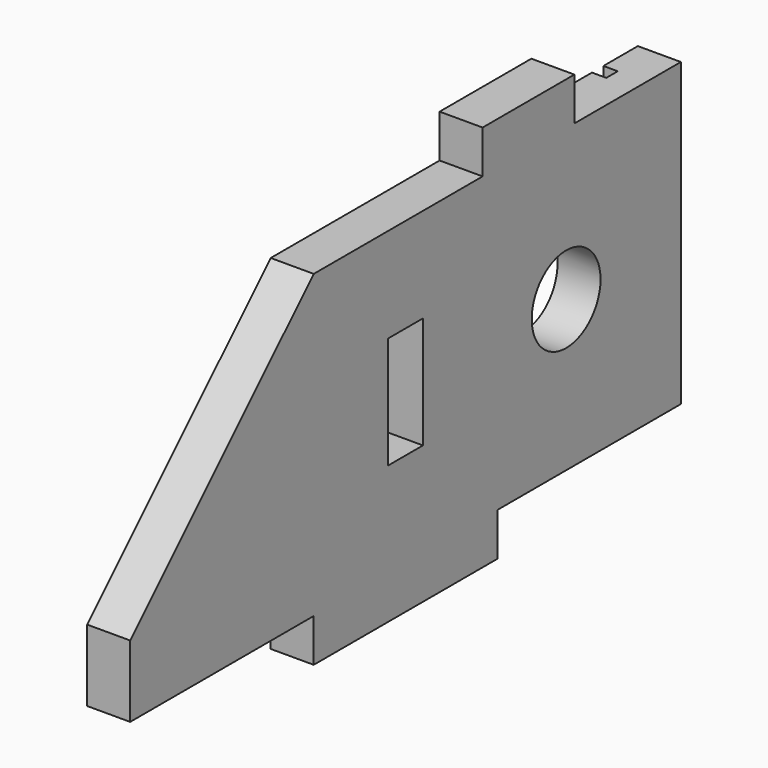
from build123d import *

# Parameters (mm, degrees)
F0_W      = 304.8
F0_H      = 152.4
F1_DEPTH  = 19.05
F2_W      = 101.6
F2_H      = 19.05
F3_DEPTH  = 19.051
F4_W      = 19.304
F4_H      = 49.53
F5_DEPTH  = 19.051
F6_W      = 6.35
F6_H      = 6.35
F7_DEPTH  = 152.401
F9_DEPTH  = 19.051
F10_R     = 19.05
F11_DEPTH = 19.051
F12_W     = 50.8
F12_H     = 19.05
F13_DEPTH = 19.05


with BuildPart() as f1:
    # F0 (on Right) → F1 (new body)
    with BuildSketch(Plane.YZ):
        with Locations((-96.171215, -95.702616)):
            Rectangle(F0_W, F0_H)
    extrude(amount=F1_DEPTH)

    # F2 (on face) → F3 (cut, through all)
    with BuildSketch(Plane.YZ.offset(19.05)):
        with Locations((-197.771215, -162.377616)):
            Rectangle(F2_W, F2_H)
        with Locations((5.428785, -162.377616)):
            Rectangle(F2_W, F2_H)
    extrude(amount=-F3_DEPTH, mode=Mode.SUBTRACT)

    # F4 (on face) → F5 (cut, through all)
    with BuildSketch(Plane.YZ.offset(19.05)):
        with Locations((-96.171215, -86.177616)):
            Rectangle(F4_W, F4_H)
    extrude(amount=-F5_DEPTH, mode=Mode.SUBTRACT)

    # F6 (on face) → F7 (cut, through all)
    with BuildSketch(Plane.XY.offset(-19.502616)):
        with Locations((3.175, 34.003785)):
            Rectangle(F6_W, F6_H)
    extrude(amount=-F7_DEPTH, mode=Mode.SUBTRACT)

    # F8 (on face) → F9 (cut, through all)
    with BuildSketch(Plane.YZ.offset(19.05)):
        Polygon((-146.971215, -19.502616), (-248.571215, -19.502616), (-248.571215, -121.102616), align=None)
    extrude(amount=-F9_DEPTH, mode=Mode.SUBTRACT)

    # F10 (on face) → F11 (cut, through all)
    with BuildSketch(Plane.YZ.offset(19.05)):
        with Locations((-7.271215, -86.177616)):
            Circle(F10_R)
    extrude(amount=-F11_DEPTH, mode=Mode.SUBTRACT)

    # F12 (on face) → F13 (join)
    with BuildSketch(Plane(origin=(0, 0, 0), x_dir=(0, -1, 0), z_dir=(-1, 0, 0))):
        with Locations((28.099215, -9.977616)):
            Rectangle(F12_W, F12_H)
    extrude(amount=-F13_DEPTH)


solid = f1.part
